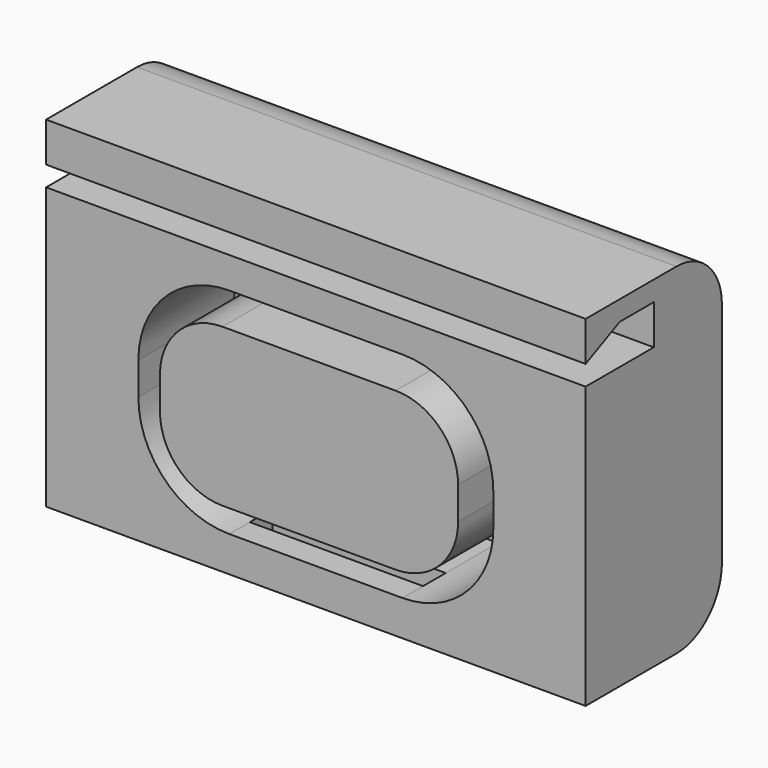
from build123d import *

# Parameters (mm, degrees)
F0_W      = 19
F0_H      = 12
F1_DEPTH  = 6
F3_DEPTH  = 4.2
F2_W      = 19
F2_H      = 2.1
F4_DEPTH  = 3
F6_DEPTH  = 19
F7_R      = 2
F8_W      = 6.1
F8_H      = 1
F9_DEPTH  = 0.8
F11_DEPTH = 4.5


with BuildPart() as f1:
    # F0 (on Front) → F1 (new body)
    with BuildSketch(Plane.XZ):
        Rectangle(F0_W, F0_H)
    extrude(amount=F1_DEPTH)

    # F2 (on face) → F3 (cut)
    with BuildSketch(Plane.XZ.offset(6)):
        with BuildLine():
            ThreePointArc((6.25, -0.4), (5.312742, 1.862742), (3.05, 2.8))
            Line((3.05, 2.8), (-3.05, 2.8))
            ThreePointArc((-3.05, 2.8), (-5.312742, 1.862742), (-6.25, -0.4))
            Line((-6.25, -0.4), (-6.25, -1.55))
            ThreePointArc((-6.25, -1.55), (-5.312742, -3.812742), (-3.05, -4.75))
            Line((-3.05, -4.75), (3.05, -4.75))
            ThreePointArc((3.05, -4.75), (5.312742, -3.812742), (6.25, -1.55))
            Line((6.25, -1.55), (6.25, -0.4))
        make_face()
    extrude(amount=-F3_DEPTH, mode=Mode.SUBTRACT)

    # F2 (on face) → F4 (cut)
    with BuildSketch(Plane.XZ.offset(6)):
        with Locations((0, 4.95)):
            Rectangle(F2_W, F2_H)
    extrude(amount=-F4_DEPTH, mode=Mode.SUBTRACT)

    # F5 (on face) → F6 (join, through all)
    with BuildSketch(Plane.YZ.offset(9.5)):
        Polygon((-3, 5.3), (-3, 6), (-6, 6), (-6, 5.3), (-4.5, 5.3), align=None)
        Polygon((-4.5, 5.3), (-6, 5.3), (-6, 4.60372), align=None)
    extrude(amount=-F6_DEPTH)

    # F7
    f7_edges = [f1.edges().sort_by_distance(p)[0] for p in [
        (0, 0, 6),
        (0, 0, -6),
    ]]
    fillet(f7_edges, radius=F7_R)

    # F8 (on face) → F9 (cut)
    with BuildSketch(Plane.XY.offset(-4.75)):
        with Locations((0, -4.594713)):
            Rectangle(F8_W, F8_H)
    extrude(amount=-F9_DEPTH, mode=Mode.SUBTRACT)

    # F10 (on face) → F11 (join)
    with BuildSketch(Plane.XZ.offset(1.8)):
        with BuildLine():
            Line((-5.25, -0.4), (-5.25, -1.55))
            ThreePointArc((-5.25, -1.55), (-4.605635, -3.105635), (-3.05, -3.75))
            Line((-3.05, -3.75), (3.05, -3.75))
            ThreePointArc((3.05, -3.75), (4.605635, -3.105635), (5.25, -1.55))
            Line((5.25, -1.55), (5.25, -0.4))
            ThreePointArc((5.25, -0.4), (4.605635, 1.155635), (3.05, 1.8))
            Line((3.05, 1.8), (-3.05, 1.8))
            ThreePointArc((-3.05, 1.8), (-4.605635, 1.155635), (-5.25, -0.4))
        make_face()
    extrude(amount=F11_DEPTH)


solid = f1.part
